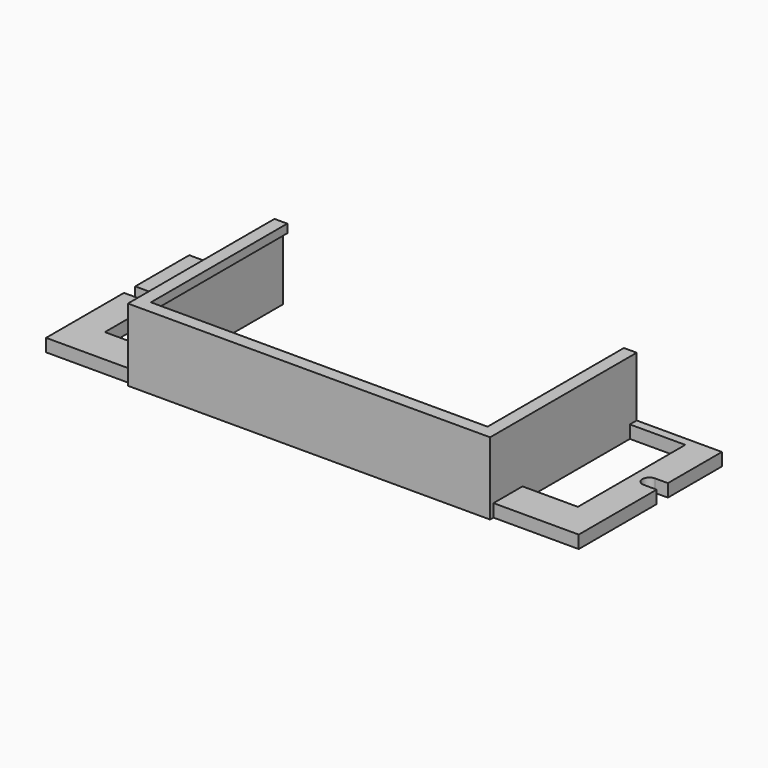
from build123d import *

# Parameters (mm, degrees)
SKETCH025_W     = 125
SKETCH025_H     = 42
PAD008_DEPTH    = 3
SKETCH026_R     = 1.65
SKETCH026_W     = 13
SKETCH026_H     = 31.5
POCKET018_DEPTH = 3.001
POCKET019_DEPTH = 3.001
SKETCH027_W     = 5
SKETCH027_H     = 3.3
SKETCH027_W_2   = 81
SKETCH027_H_2   = 41
POCKET020_DEPTH = 3.001
PAD009_DEPTH    = 17
PAD010_DEPTH    = 2


with BuildPart() as part:
    # Sketch025 → Pad008 (new body)
    with BuildSketch(Plane.XY):
        with Locations((0, -21.5)):
            Rectangle(SKETCH025_W, SKETCH025_H)
    extrude(amount=PAD008_DEPTH)

    # Sketch026 (on Face6 of Pad008) → Pocket018 (cut, through all)
    with BuildSketch(Plane.XY.offset(3)):
        with Locations((-59.5, -18)):
            Circle(SKETCH026_R)
        with Locations((59.5, -18)):
            Circle(SKETCH026_R)
        with Locations((-49, -18.25)):
            Rectangle(SKETCH026_W, SKETCH026_H)
        with Locations((49, -18.25)):
            Rectangle(SKETCH026_W, SKETCH026_H)
    extrude(amount=-POCKET018_DEPTH, mode=Mode.SUBTRACT)

    # Sketch026 (on Face6 of Pad008) → Pocket019 (cut, through all)
    with BuildSketch(Plane.XY.offset(3)):
        with Locations((-59.5, -18)):
            Circle(SKETCH026_R)
        with Locations((59.5, -18)):
            Circle(SKETCH026_R)
        with Locations((-49, -18.25)):
            Rectangle(SKETCH026_W, SKETCH026_H)
        with Locations((49, -18.25)):
            Rectangle(SKETCH026_W, SKETCH026_H)
    extrude(amount=-POCKET019_DEPTH, mode=Mode.SUBTRACT)

    # Sketch027 (on Face5 of Pocket019) → Pocket020 (cut, through all)
    with BuildSketch(Plane.XY.offset(3)):
        with Locations((-62, -18)):
            Rectangle(SKETCH027_W, SKETCH027_H)
        with Locations((62, -18)):
            Rectangle(SKETCH027_W, SKETCH027_H)
        with Locations((0, -21)):
            Rectangle(SKETCH027_W_2, SKETCH027_H_2)
    extrude(amount=-POCKET020_DEPTH, mode=Mode.SUBTRACT)

    # Sketch028 (on Face2 of Pocket020) → Pad009 (join)
    with BuildSketch(Plane(origin=(0, 0, 0), x_dir=(1, 0, 0), z_dir=(0, 0, -1))):
        Polygon((-42.5, 0.5), (-42.5, 43.5), (42.5, 43.5), (42.5, 0.5), (40.5, 0.5), (40.5, 41.5), (-40.5, 41.5), (-40.5, 0.5), align=None)
    extrude(amount=-PAD009_DEPTH)

    # Sketch029 (on Face27 of Pad009) → Pad010 (join)
    with BuildSketch(Plane.XY.offset(17)):
        Polygon((-42.5, -0.5), (-42.5, -43.5), (42.5, -43.5), (42.5, -0.5), (39.5, -0.5), (39.5, -40.5), (-39.5, -40.5), (-39.5, -0.5), align=None)
    extrude(amount=-PAD010_DEPTH)


with BuildPart() as part_1:
    # Body003002 placement: moved
    add(part.part.moved(Location((0, 0, 70))))


solid = part_1.part
